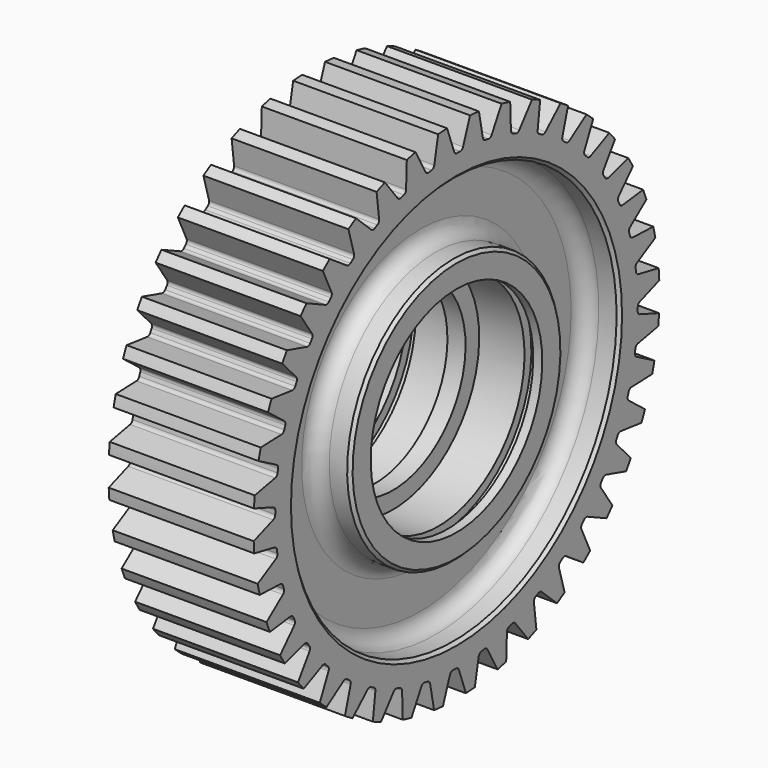
from build123d import *

# Parameters (mm, degrees)
F3_DEPTH = 25.4
F4_COUNT = 40
F4_ANGLE = 351
F5_SIZE2 = 1
F5_SIZE  = 1


with BuildPart() as f1:
    # F0 (on Front) → F1 (revolve)
    with BuildSketch(Plane.XZ):
        with BuildLine():
            Line((24, 84), (0, 84))
            Line((0, 84), (-24, 84))
            Line((-24, 84), (-24, 67.5))
            Line((-24, 67.5), (-17.0785, 67.5))
            ThreePointArc((-17.0785, 67.5), (-13.4863975516, 66.0121024484), (-11.9985, 62.42))
            Line((-11.9985, 62.42), (-11.9985, 49.08))
            ThreePointArc((-11.9985, 49.08), (-13.4863975516, 45.4878975516), (-17.0785, 44))
            Line((-17.0785, 44), (-24, 44))
            Line((-24, 44), (-24, 35.5))
            Line((-24, 35.5), (-21, 35.5))
            Line((-21, 35.5), (-21, 38.5))
            Line((-21, 38.5), (-18, 38.5))
            Line((-18, 38.5), (-18, 35.6497268677))
            Line((-18, 35.6497268677), (-3, 35.6497268677))
            Line((-3, 35.6497268677), (-3, 30))
            Line((-3, 30), (0, 30))
            Line((0, 30), (3, 30))
            Line((3, 30), (3, 35.6497268677))
            Line((3, 35.6497268677), (18, 35.6497268677))
            Line((18, 35.6497268677), (18, 38.5))
            Line((18, 38.5), (21, 38.5))
            Line((21, 38.5), (21, 35.5))
            Line((21, 35.5), (24, 35.5))
            Line((24, 35.5), (24, 44))
            Line((24, 44), (17.0785, 44))
            ThreePointArc((17.0785, 44), (13.4863975516, 45.4878975516), (11.9985, 49.08))
            Line((11.9985, 49.08), (11.9985, 62.42))
            ThreePointArc((11.9985, 62.42), (13.4863975516, 66.0121024484), (17.0785, 67.5))
            Line((17.0785, 67.5), (24, 67.5))
            Line((24, 67.5), (24, 84))
        make_face()
    revolve(axis=Axis((-12, 0, 0), (1, 0, 0)))

    # F2 (on Right) → F3 (cut, symmetric)
    with BuildSketch(Plane.YZ):
        with BuildLine():
            ThreePointArc((0.2290973731, 74.9996500951), (0.8538244792, 74.9951397342), (1.4784923406, 74.9854256532))
            ThreePointArc((1.4784923406, 74.9854256532), (2.2216802659, 75.2077259837), (2.6969377726, 75.820813279))
            Line((2.6969377726, 75.820813279), (5.6057613299, 83.8127403198))
            ThreePointArc((5.6057613299, 83.8127403198), (0.8546537517, 83.9956520718), (-3.8991920228, 83.9094529929))
            Line((-3.8991920228, 83.9094529929), (-0.9604328731, 75.8352785881))
            ThreePointArc((-0.9604328731, 75.8352785881), (-0.4970533731, 75.2304348496), (0.2290973731, 74.9996500951))
        make_face()
    f3 = extrude(amount=F3_DEPTH, both=True, mode=Mode.SUBTRACT)

    # F4: F3 ×40 about axis
    f4_axis = Axis((24, 0, 0), (-1, 0, 0))
    for i in range(1, F4_COUNT):
        add(f3.rotate(f4_axis, i * F4_ANGLE / (F4_COUNT - 1)), mode=Mode.SUBTRACT)

    # F5
    f5_edges = [f1.edges().sort_by_distance(p)[0] for p in [
        (24, 0, -67.5),
        (24, 0, -44),
    ]]
    chamfer(f5_edges, length=F5_SIZE, length2=F5_SIZE2)


solid = f1.part
